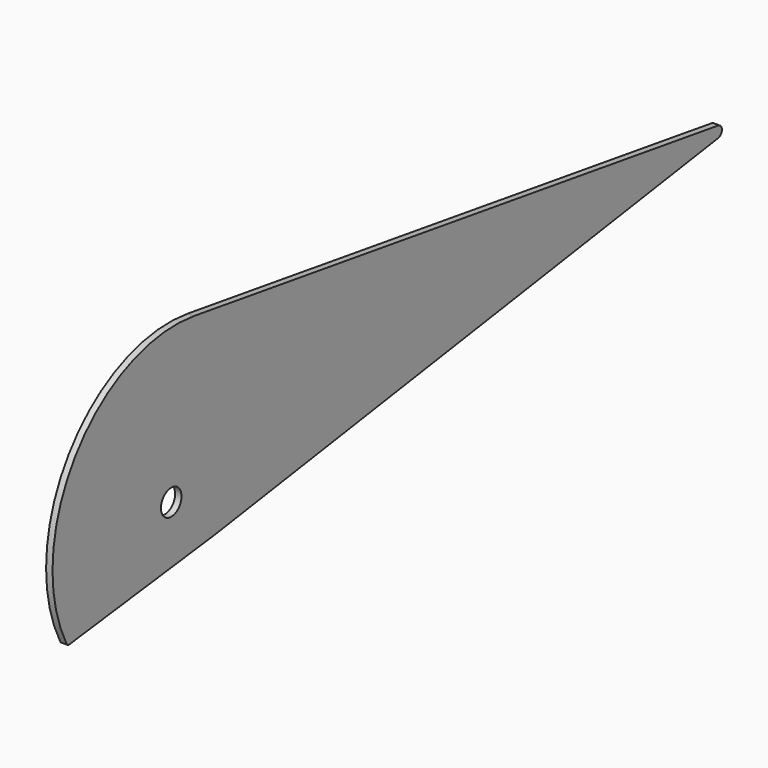
from build123d import *

# Parameters (mm, degrees)
F0_R     = 6.35
F1_DEPTH = 1.5875
F2_R     = 1.5875


with BuildPart() as f1:
    # F0 (on Right) → F1 (new body, symmetric)
    with BuildSketch(Plane.YZ):
        with BuildLine():
            ThreePointArc((51.196875, -23.8125), (32.7506622905, 25.8960511115), (-13.6571946485, 51.5380797221))
            ThreePointArc((-13.6571946485, 51.5380797221), (-74.7116761115, 33.9412872905), (-101.203125, -23.8125))
            ThreePointArc((-101.203125, -23.8125), (-98.8413616364, -42.6368143416), (-91.9024738075, -60.2942369259))
            Line((-91.9024738075, -60.2942369259), (0, -48.815625))
            Line((0, -48.815625), (0, -23.415625))
            Line((0, -23.415625), (3.175, -23.415625))
            Line((3.175, -23.415625), (3.175, -48.3443618613))
            Line((3.175, -48.3443618613), (49.1093522758, -41.5263564983))
            ThreePointArc((49.1093522758, -41.5263564983), (50.6731948379, -32.730718196), (51.196875, -23.8125))
        make_face()
        with Locations((-27.78125, -23.8125)):
            Circle(F0_R, mode=Mode.SUBTRACT)
        with BuildLine():
            ThreePointArc((310.3672615954, -2.7480187483), (307.1812515299, 0.0029156046), (310.3730287107, 2.7471565524))
            Line((310.3730287107, 2.7471565524), (-13.6571946485, 51.5380797221))
            ThreePointArc((-13.6571946485, 51.5380797221), (32.7506622905, 25.8960511115), (51.196875, -23.8125))
            ThreePointArc((51.196875, -23.8125), (50.6731948379, -32.730718196), (49.1093522758, -41.5263564983))
            Line((49.1093522758, -41.5263564983), (310.3672615954, -2.7480187483))
        make_face()
        with BuildLine():
            ThreePointArc((310.3672615954, -2.7480187483), (312.0630786939, -1.8144997338), (312.7375, 0))
            ThreePointArc((312.7375, 0), (312.0649818283, 1.8122909259), (310.3730287107, 2.7471565524))
            ThreePointArc((310.3730287107, 2.7471565524), (307.1812515299, 0.0029156046), (310.3672615954, -2.7480187483))
        make_face()
        Polygon((0, -48.815625), (3.175, -48.3443618613), (3.175, -23.415625), (0, -23.415625), align=None)
    extrude(amount=F1_DEPTH, both=True)

    # F2
    f2_edges = [f1.edges().sort_by_distance(p)[0] for p in [
        (0, -91.902474, -60.294237),
    ]]
    fillet(f2_edges, radius=F2_R)


solid = f1.part
